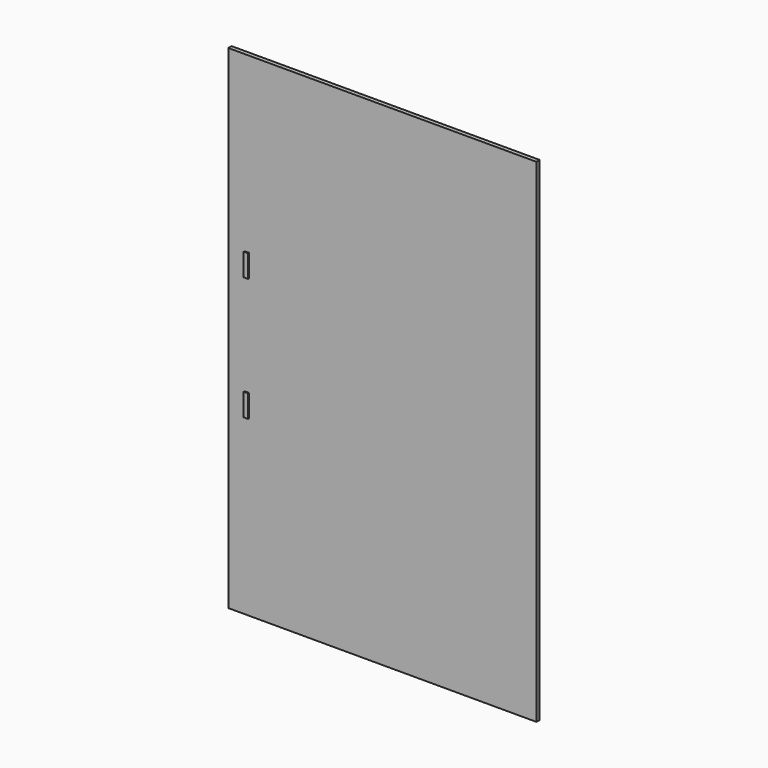
from build123d import *

# Parameters (mm, degrees)
F0_W     = 1500
F0_H     = 2400
F1_DEPTH = 20
F2_W     = 22
F2_H     = 110
F3_DEPTH = 5


with BuildPart() as f1:
    # F0 (on Front) → F1 (new body)
    with BuildSketch(Plane.XZ):
        Rectangle(F0_W, F0_H)
    extrude(amount=F1_DEPTH)

    # F2 (on face) → F3 (join)
    with BuildSketch(Plane.XZ.offset(20)):
        with Locations((-660.170734, 300)):
            Rectangle(F2_W, F2_H)
        with Locations((-660.170734, -300)):
            Rectangle(F2_W, F2_H)
    extrude(amount=F3_DEPTH)


solid = f1.part
